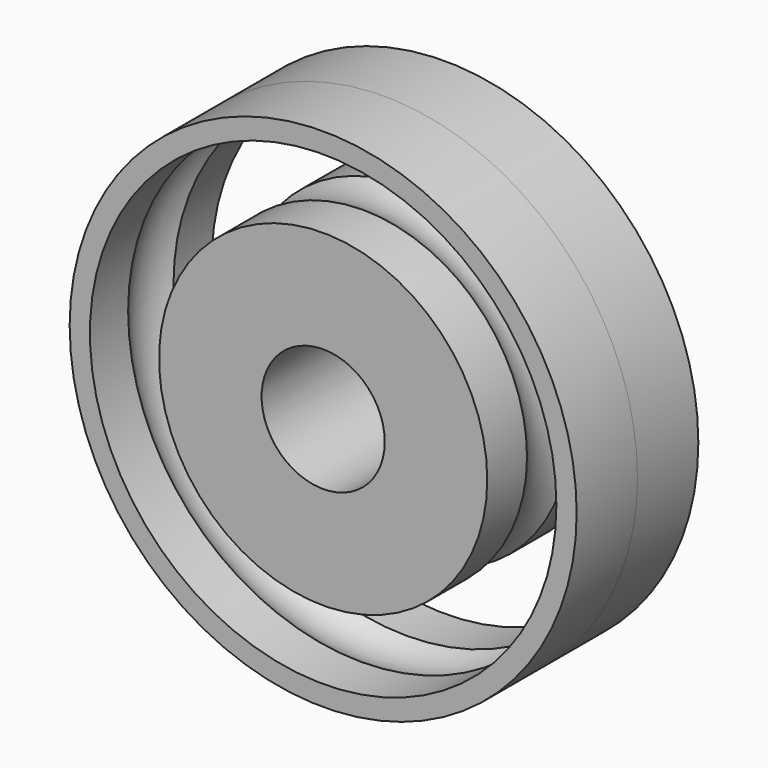
from build123d import *

# Parameters (mm, degrees)
F0_R     = 6.35
F0_R_2   = 5.842
F0_R_3   = 4.110796
F0_R_4   = 1.542248
F1_DEPTH = 1.905
F2_R     = 1.104409


with BuildPart() as f1:
    # F0 (on Front) → F1 (new body, symmetric)
    with BuildSketch(Plane.XZ):
        Circle(F0_R)
        Circle(F0_R_2, mode=Mode.SUBTRACT)
        Circle(F0_R_3)
        Circle(F0_R_4, mode=Mode.SUBTRACT)
    extrude(amount=F1_DEPTH, both=True)

    # F2 (on Right) → F3 (revolve, cut)
    with BuildSketch(Plane.YZ):
        with Locations((0, 4.995884)):
            Circle(F2_R)
    revolve(axis=Axis((0, -1.905, 0), (0, -1, 0)), mode=Mode.SUBTRACT)


solid = f1.part
